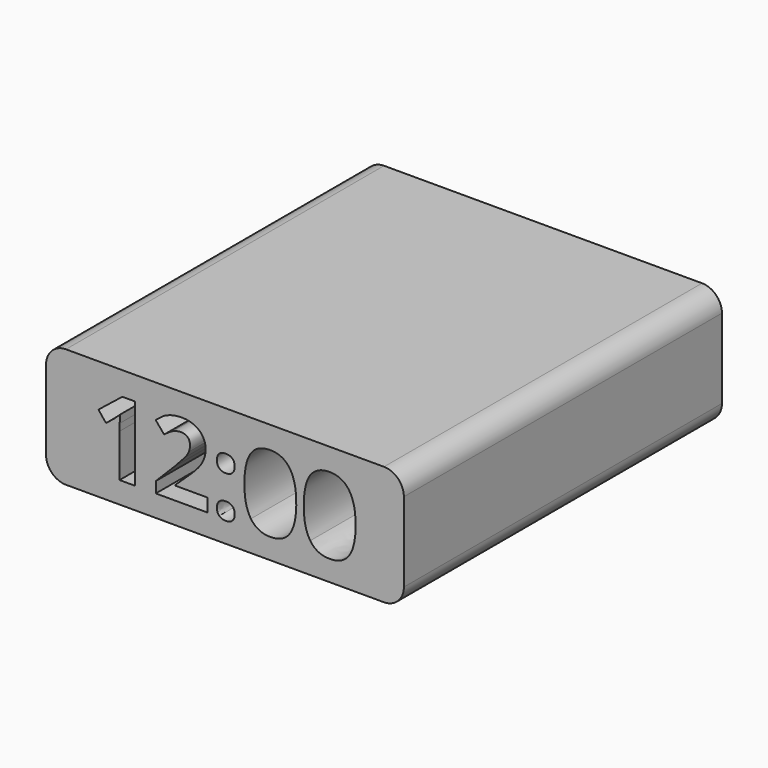
from build123d import *

# Parameters (mm, degrees)
F1_DEPTH = 127


with BuildPart() as f1:
    # F0 (on Front) → F1 (new body)
    with BuildSketch(Plane.XZ):
        with BuildLine():
            ThreePointArc((57.15, 12.7), (55.2901280605, 17.1901280605), (50.8, 19.05))
            Line((50.8, 19.05), (-50.8, 19.05))
            ThreePointArc((-50.8, 19.05), (-55.2901280605, 17.1901280605), (-57.15, 12.7))
            Line((-57.15, 12.7), (-57.15, -12.7))
            ThreePointArc((-57.15, -12.7), (-55.2901280605, -17.1901280605), (-50.8, -19.05))
            Line((-50.8, -19.05), (50.8, -19.05))
            ThreePointArc((50.8, -19.05), (55.2901280605, -17.1901280605), (57.15, -12.7))
            Line((57.15, -12.7), (57.15, 12.7))
        make_face()
        with BuildLine():
            Line((-28.6644783725, 11.5609067216), (-28.6644783725, -12.1521865949))
            Line((-28.6644783725, -12.1521865949), (-33.6780148452, -12.1521865949))
            Line((-33.6780148452, -12.1521865949), (-33.6780148452, 1.5701637506))
            Line((-33.6780148452, 1.5701637506), (-33.6261148817, 3.8226221659))
            Line((-33.6261148817, 3.8226221659), (-33.5482649364, 6.2878704315))
            add(Edge.make_bspline(
                [(-33.5482649364, 6.2878704315), (-34.7938640601, 5.0422713078), (-35.2817237169, 4.6530215817)],
                knots=[0, 0, 0, 1, 1, 1], degree=2))
            Line((-35.2817237169, 4.6530215817), (-38.0064717998, 2.4628431226))
            Line((-38.0064717998, 2.4628431226), (-40.4250100983, 5.4782310011))
            Line((-40.4250100983, 5.4782310011), (-32.7853354732, 11.5609067216))
            Line((-32.7853354732, 11.5609067216), (-28.6644783725, 11.5609067216))
        make_face(mode=Mode.SUBTRACT)
        with BuildLine():
            Line((-5.5222846543, -7.9327195635), (-5.5222846543, -12.1521865949))
            Line((-5.5222846543, -12.1521865949), (-22.0991329916, -12.1521865949))
            Line((-22.0991329916, -12.1521865949), (-22.0991329916, -8.6645090487))
            Line((-22.0991329916, -8.6645090487), (-16.1462071798, -2.6493032807))
            add(Edge.make_bspline(
                [(-16.1462071798, -2.6493032807), (-13.499309042, 0.0598748132), (-12.6896696117, 1.1056590774)],
                knots=[0, 0, 0, 1, 1, 1], degree=2))
            add(Edge.make_bspline(
                [(-12.6896696117, 1.1056590774), (-11.8800301813, 2.1514433417), (-11.5219204332, 3.0441227136)],
                knots=[0, 0, 0, 1, 1, 1], degree=2))
            add(Edge.make_bspline(
                [(-11.5219204332, 3.0441227136), (-11.1638106852, 3.9368020856), (-11.1638106852, 4.8917614137)],
                knots=[0, 0, 0, 1, 1, 1], degree=2))
            add(Edge.make_bspline(
                [(-11.1638106852, 4.8917614137), (-11.1638106852, 6.3190104095), (-11.9526901302, 7.0170649184)],
                knots=[0, 0, 0, 1, 1, 1], degree=2))
            add(Edge.make_bspline(
                [(-11.9526901302, 7.0170649184), (-12.7415695752, 7.7151194273), (-14.0546386513, 7.7151194273)],
                knots=[0, 0, 0, 1, 1, 1], degree=2))
            add(Edge.make_bspline(
                [(-14.0546386513, 7.7151194273), (-15.4299876837, 7.7151194273), (-16.7274867708, 7.0819398728)],
                knots=[0, 0, 0, 1, 1, 1], degree=2))
            add(Edge.make_bspline(
                [(-16.7274867708, 7.0819398728), (-18.024985858, 6.4487603183), (-19.4366648648, 5.2810111398)],
                knots=[0, 0, 0, 1, 1, 1], degree=2))
            Line((-19.4366648648, 5.2810111398), (-22.1614129478, 8.5091888686))
            add(Edge.make_bspline(
                [(-22.1614129478, 8.5091888686), (-20.4123841783, 10.003907817), (-19.2602049889, 10.6189223843)],
                knots=[0, 0, 0, 1, 1, 1], degree=2))
            add(Edge.make_bspline(
                [(-19.2602049889, 10.6189223843), (-18.1080257995, 11.2339369516), (-16.7456517581, 11.5660967179)],
                knots=[0, 0, 0, 1, 1, 1], degree=2))
            add(Edge.make_bspline(
                [(-16.7456517581, 11.5660967179), (-15.3832777166, 11.8982564842), (-13.6965289033, 11.8982564842)],
                knots=[0, 0, 0, 1, 1, 1], degree=2))
            add(Edge.make_bspline(
                [(-13.6965289033, 11.8982564842), (-11.4752104661, 11.8982564842), (-9.7728916638, 11.0886170539)],
                knots=[0, 0, 0, 1, 1, 1], degree=2))
            add(Edge.make_bspline(
                [(-9.7728916638, 11.0886170539), (-8.0705728615, 10.2789776235), (-7.1285885242, 8.8179936514)],
                knots=[0, 0, 0, 1, 1, 1], degree=2))
            add(Edge.make_bspline(
                [(-7.1285885242, 8.8179936514), (-6.186604187, 7.3570096793), (-6.186604187, 5.4782310011)],
                knots=[0, 0, 0, 1, 1, 1], degree=2))
            add(Edge.make_bspline(
                [(-6.186604187, 5.4782310011), (-6.186604187, 3.8381921549), (-6.7626937816, 2.4031581646)],
                knots=[0, 0, 0, 1, 1, 1], degree=2))
            add(Edge.make_bspline(
                [(-6.7626937816, 2.4031581646), (-7.3387833763, 0.9681241742), (-8.5480525255, -0.539569765)],
                knots=[0, 0, 0, 1, 1, 1], degree=2))
            add(Edge.make_bspline(
                [(-8.5480525255, -0.539569765), (-9.7573216747, -2.0472637043), (-12.8038495313, -4.8394817398)],
                knots=[0, 0, 0, 1, 1, 1], degree=2))
            Line((-12.8038495313, -4.8394817398), (-15.8555673843, -7.7095497206))
            Line((-15.8555673843, -7.7095497206), (-15.8555673843, -7.9327195635))
            Line((-15.8555673843, -7.9327195635), (-5.5222846543, -7.9327195635))
        make_face(mode=Mode.SUBTRACT)
        with BuildLine():
            add(Edge.make_bspline(
                [(-1.824412256, -11.8667367957), (-2.569176732, -11.1453273033), (-2.569176732, -9.8322582271)],
                knots=[0, 0, 0, 1, 1, 1], degree=2))
            add(Edge.make_bspline(
                [(-2.569176732, -9.8322582271), (-2.569176732, -8.4724791838), (-1.839982245, -7.7744246749)],
                knots=[0, 0, 0, 1, 1, 1], degree=2))
            add(Edge.make_bspline(
                [(-1.839982245, -7.7744246749), (-1.1107877581, -7.076370166), (0.2853212597, -7.076370166)],
                knots=[0, 0, 0, 1, 1, 1], degree=2))
            add(Edge.make_bspline(
                [(0.2853212597, -7.076370166), (1.6295303139, -7.076370166), (2.3665097954, -7.789994664)],
                knots=[0, 0, 0, 1, 1, 1], degree=2))
            add(Edge.make_bspline(
                [(2.3665097954, -7.789994664), (3.1034892769, -8.5036191619), (3.1034892769, -9.8322582271)],
                knots=[0, 0, 0, 1, 1, 1], degree=2))
            add(Edge.make_bspline(
                [(3.1034892769, -9.8322582271), (3.1034892769, -11.1141873252), (2.3587248009, -11.8511668067)],
                knots=[0, 0, 0, 1, 1, 1], degree=2))
            add(Edge.make_bspline(
                [(2.3587248009, -11.8511668067), (1.6139603249, -12.5881462882), (0.2853212597, -12.5881462882)],
                knots=[0, 0, 0, 1, 1, 1], degree=2))
            add(Edge.make_bspline(
                [(0.2853212597, -12.5881462882), (-1.07964778, -12.5881462882), (-1.824412256, -11.8667367957)],
                knots=[0, 0, 0, 1, 1, 1], degree=2))
        make_face(mode=Mode.SUBTRACT)
        with BuildLine():
            add(Edge.make_bspline(
                [(20.6794119113, 8.8205886495), (22.7787654342, 5.7065908404), (22.7787654342, -0.2982349348)],
                knots=[0, 0, 0, 1, 1, 1], degree=2))
            add(Edge.make_bspline(
                [(22.7787654342, -0.2982349348), (22.7787654342, -6.5054705677), (20.7442868656, -9.4923134663)],
                knots=[0, 0, 0, 1, 1, 1], degree=2))
            add(Edge.make_bspline(
                [(20.7442868656, -9.4923134663), (18.709808297, -12.4791563649), (14.4747712766, -12.4791563649)],
                knots=[0, 0, 0, 1, 1, 1], degree=2))
            add(Edge.make_bspline(
                [(14.4747712766, -12.4791563649), (10.3694841649, -12.4791563649), (8.2857006309, -9.3962985338)],
                knots=[0, 0, 0, 1, 1, 1], degree=2))
            add(Edge.make_bspline(
                [(8.2857006309, -9.3962985338), (6.201917097, -6.3134407028), (6.201917097, -0.2982349348)],
                knots=[0, 0, 0, 1, 1, 1], degree=2))
            add(Edge.make_bspline(
                [(6.201917097, -0.2982349348), (6.201917097, 5.9816606469), (8.2312056693, 8.9581235528)],
                knots=[0, 0, 0, 1, 1, 1], degree=2))
            add(Edge.make_bspline(
                [(8.2312056693, 8.9581235528), (10.2604942416, 11.9345864587), (14.4747712766, 11.9345864587)],
                knots=[0, 0, 0, 1, 1, 1], degree=2))
            add(Edge.make_bspline(
                [(14.4747712766, 11.9345864587), (18.5800583883, 11.9345864587), (20.6794119113, 8.8205886495)],
                knots=[0, 0, 0, 1, 1, 1], degree=2))
        make_face(mode=Mode.SUBTRACT)
        with BuildLine():
            add(Edge.make_bspline(
                [(39.6384685725, 8.8205886495), (41.7378220955, 5.7065908404), (41.7378220955, -0.2982349348)],
                knots=[0, 0, 0, 1, 1, 1], degree=2))
            add(Edge.make_bspline(
                [(41.7378220955, -0.2982349348), (41.7378220955, -6.5054705677), (39.7033435268, -9.4923134663)],
                knots=[0, 0, 0, 1, 1, 1], degree=2))
            add(Edge.make_bspline(
                [(39.7033435268, -9.4923134663), (37.6688649582, -12.4791563649), (33.4338279378, -12.4791563649)],
                knots=[0, 0, 0, 1, 1, 1], degree=2))
            add(Edge.make_bspline(
                [(33.4338279378, -12.4791563649), (29.3285408261, -12.4791563649), (27.2447572922, -9.3962985338)],
                knots=[0, 0, 0, 1, 1, 1], degree=2))
            add(Edge.make_bspline(
                [(27.2447572922, -9.3962985338), (25.1609737582, -6.3134407028), (25.1609737582, -0.2982349348)],
                knots=[0, 0, 0, 1, 1, 1], degree=2))
            add(Edge.make_bspline(
                [(25.1609737582, -0.2982349348), (25.1609737582, 5.9816606469), (27.1902623305, 8.9581235528)],
                knots=[0, 0, 0, 1, 1, 1], degree=2))
            add(Edge.make_bspline(
                [(27.1902623305, 8.9581235528), (29.2195509028, 11.9345864587), (33.4338279378, 11.9345864587)],
                knots=[0, 0, 0, 1, 1, 1], degree=2))
            add(Edge.make_bspline(
                [(33.4338279378, 11.9345864587), (37.5391150495, 11.9345864587), (39.6384685725, 8.8205886495)],
                knots=[0, 0, 0, 1, 1, 1], degree=2))
        make_face(mode=Mode.SUBTRACT)
        with BuildLine():
            add(Edge.make_bspline(
                [(-1.824412256, 1.5208587853), (-2.569176732, 2.2344832832), (-2.569176732, 3.5631223485)],
                knots=[0, 0, 0, 1, 1, 1], degree=2))
            add(Edge.make_bspline(
                [(-2.569176732, 3.5631223485), (-2.569176732, 4.9280913881), (-1.839982245, 5.6235508988)],
                knots=[0, 0, 0, 1, 1, 1], degree=2))
            add(Edge.make_bspline(
                [(-1.839982245, 5.6235508988), (-1.1107877581, 6.3190104095), (0.2853212597, 6.3190104095)],
                knots=[0, 0, 0, 1, 1, 1], degree=2))
            add(Edge.make_bspline(
                [(0.2853212597, 6.3190104095), (1.6295303139, 6.3190104095), (2.3665097954, 5.6053859116)],
                knots=[0, 0, 0, 1, 1, 1], degree=2))
            add(Edge.make_bspline(
                [(2.3665097954, 5.6053859116), (3.1034892769, 4.8917614137), (3.1034892769, 3.5631223485)],
                knots=[0, 0, 0, 1, 1, 1], degree=2))
            add(Edge.make_bspline(
                [(3.1034892769, 3.5631223485), (3.1034892769, 2.2500532723), (2.3509398064, 1.5286437798)],
                knots=[0, 0, 0, 1, 1, 1], degree=2))
            add(Edge.make_bspline(
                [(2.3509398064, 1.5286437798), (1.5983903359, 0.8072342874), (0.2853212597, 0.8072342874)],
                knots=[0, 0, 0, 1, 1, 1], degree=2))
            add(Edge.make_bspline(
                [(0.2853212597, 0.8072342874), (-1.07964778, 0.8072342874), (-1.824412256, 1.5208587853)],
                knots=[0, 0, 0, 1, 1, 1], degree=2))
        make_face(mode=Mode.SUBTRACT)
    extrude(amount=F1_DEPTH)


solid = f1.part
